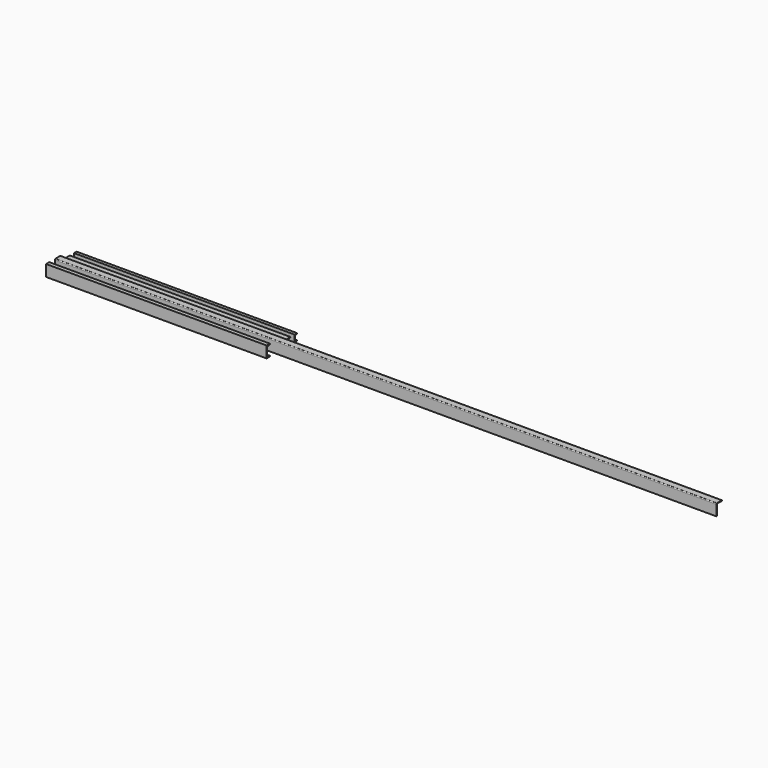
from build123d import *

# Parameters (mm, degrees)
F1_DEPTH = 2451.1
F2_DEPTH = 7353.3
F3_DEPTH = 2451.1
F4_DEPTH = 2451.1


with BuildPart() as f1:
    # F0 (on Right) → F1 (new body)
    with BuildSketch(Plane.YZ):
        Polygon((0, 127), (0, 0), (44.45, 0), (44.45, 8.128), (4.826, 19.05), (4.826, 107.95), (44.45, 118.872), (44.45, 127), align=None)
    extrude(amount=F1_DEPTH)


with BuildPart() as f2:
    # F0 (on Right) → F2 (new body)
    with BuildSketch(Plane.YZ):
        with BuildLine():
            Line((120.65, 117.475), (120.65, 0))
            Line((120.65, 0), (127, 0))
            Line((127, 0), (127, 111.125))
            ThreePointArc((127, 111.125), (129.789808, 117.860192), (136.525, 120.65))
            Line((136.525, 120.65), (196.85, 120.65))
            Line((196.85, 120.65), (196.85, 127))
            Line((196.85, 127), (130.175, 127))
            ThreePointArc((130.175, 127), (123.439808, 124.210192), (120.65, 117.475))
        make_face()
    extrude(amount=F2_DEPTH)


with BuildPart() as f3:
    # F0 (on Right) → F3 (new body)
    with BuildSketch(Plane.YZ):
        with BuildLine():
            Line((254, 66.675), (254, 0))
            Line((254, 0), (260.35, 0))
            Line((260.35, 0), (260.35, 60.325))
            ThreePointArc((260.35, 60.325), (263.139808, 67.060192), (269.875, 69.85))
            Line((269.875, 69.85), (330.2, 69.85))
            Line((330.2, 69.85), (330.2, 76.2))
            Line((330.2, 76.2), (263.525, 76.2))
            ThreePointArc((263.525, 76.2), (256.789808, 73.410192), (254, 66.675))
        make_face()
    extrude(amount=F3_DEPTH)


with BuildPart() as f4:
    # F0 (on Right) → F4 (new body)
    with BuildSketch(Plane.YZ):
        Polygon((387.35, 76.2), (387.35, 0), (423.164, 0), (423.164, 6.9342), (391.668, 17.4625), (391.668, 58.7375), (423.164, 69.2658), (423.164, 76.2), align=None)
    extrude(amount=F4_DEPTH)


solid = Compound([f1.part, f2.part, f3.part, f4.part])
